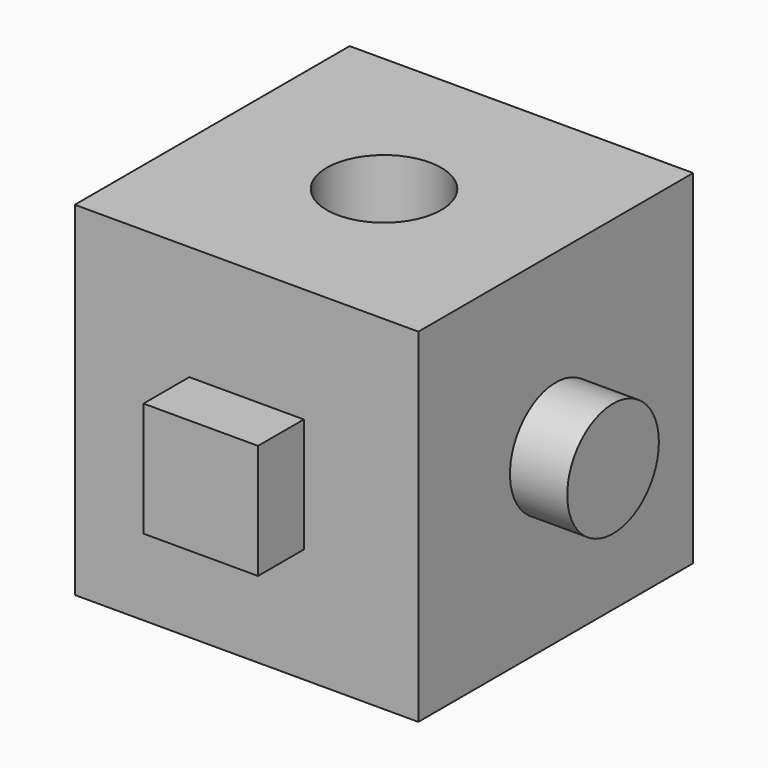
from build123d import *

# Parameters (mm, degrees)
F1_DEPTH = 76.2
F2_W     = 25.4
F2_H     = 25.4
F3_DEPTH = 12.7
F4_R     = 12.7
F5_DEPTH = 12.7
F7_D     = 25.4


with BuildPart() as f1:
    # F0 (on Front) → F1 (new body)
    with BuildSketch(Plane.XZ):
        Polygon((39.249888, 54.33222), (-36.950112, 54.33222), (-36.950112, -21.86778), (39.249888, -21.86778), (39.249888, -18.334419), align=None)
    extrude(amount=F1_DEPTH)

    # F2 (on face) → F3 (join)
    with BuildSketch(Plane.XZ.offset(76.2)):
        with Locations((1.149888, 16.23222)):
            Rectangle(F2_W, F2_H)
    extrude(amount=F3_DEPTH)

    # F4 (on face) → F5 (join)
    with BuildSketch(Plane.YZ.offset(39.249888)):
        with Locations((-38.1, 16.23222)):
            Circle(F4_R)
    extrude(amount=F5_DEPTH)

    # F7 (through all)
    with Locations(Plane.XY.offset(54.33222)):
        with Locations((1.149888, -38.1)):
            Hole(F7_D / 2)


solid = f1.part
